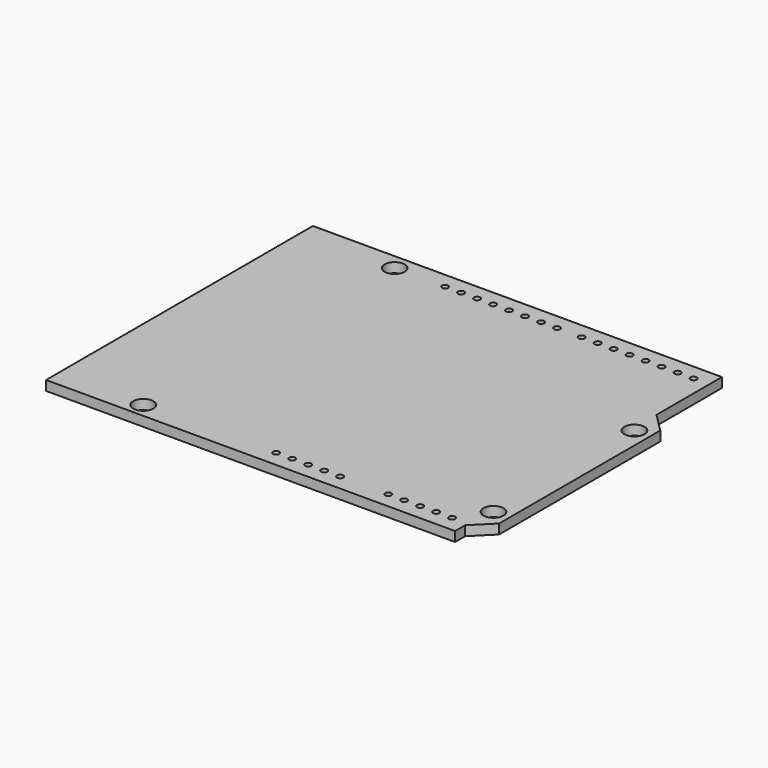
from build123d import *

# Parameters (mm, degrees)
F0_R     = 1.6
F0_R_2   = 0.5
F1_DEPTH = 1.54


with BuildPart() as f1:
    # F0 (on Top) → F1 (new body)
    with BuildSketch(Plane.XY):
        Polygon((0, 53), (0, 0), (65, 0), (65, 2), (68, 5), (68, 37), (65, 40), (65, 53), align=None)
        with Locations((13.6, 2.3)):
            Circle(F0_R, mode=Mode.SUBTRACT)
        with Locations((34.54, 2.54)):
            Circle(F0_R_2, mode=Mode.SUBTRACT)
        with Locations((37.08, 2.54)):
            Circle(F0_R_2, mode=Mode.SUBTRACT)
        with Locations((39.62, 2.54)):
            Circle(F0_R_2, mode=Mode.SUBTRACT)
        with Locations((42.16, 2.54)):
            Circle(F0_R_2, mode=Mode.SUBTRACT)
        with Locations((44.7, 2.54)):
            Circle(F0_R_2, mode=Mode.SUBTRACT)
        with Locations((52.34, 2.54)):
            Circle(F0_R_2, mode=Mode.SUBTRACT)
        with Locations((54.88, 2.54)):
            Circle(F0_R_2, mode=Mode.SUBTRACT)
        with Locations((57.42, 2.54)):
            Circle(F0_R_2, mode=Mode.SUBTRACT)
        with Locations((59.96, 2.54)):
            Circle(F0_R_2, mode=Mode.SUBTRACT)
        with Locations((62.5, 2.54)):
            Circle(F0_R_2, mode=Mode.SUBTRACT)
        with Locations((65.5, 7)):
            Circle(F0_R, mode=Mode.SUBTRACT)
        with Locations((15, 50.5)):
            Circle(F0_R, mode=Mode.SUBTRACT)
        with Locations((23.02, 50.5)):
            Circle(F0_R_2, mode=Mode.SUBTRACT)
        with Locations((25.56, 50.5)):
            Circle(F0_R_2, mode=Mode.SUBTRACT)
        with Locations((28.1, 50.5)):
            Circle(F0_R_2, mode=Mode.SUBTRACT)
        with Locations((30.64, 50.5)):
            Circle(F0_R_2, mode=Mode.SUBTRACT)
        with Locations((33.18, 50.5)):
            Circle(F0_R_2, mode=Mode.SUBTRACT)
        with Locations((65.5, 35)):
            Circle(F0_R, mode=Mode.SUBTRACT)
        with Locations((35.72, 50.5)):
            Circle(F0_R_2, mode=Mode.SUBTRACT)
        with Locations((38.26, 50.5)):
            Circle(F0_R_2, mode=Mode.SUBTRACT)
        with Locations((40.8, 50.5)):
            Circle(F0_R_2, mode=Mode.SUBTRACT)
        with Locations((44.72, 50.5)):
            Circle(F0_R_2, mode=Mode.SUBTRACT)
        with Locations((47.26, 50.5)):
            Circle(F0_R_2, mode=Mode.SUBTRACT)
        with Locations((49.8, 50.5)):
            Circle(F0_R_2, mode=Mode.SUBTRACT)
        with Locations((52.34, 50.5)):
            Circle(F0_R_2, mode=Mode.SUBTRACT)
        with Locations((54.88, 50.5)):
            Circle(F0_R_2, mode=Mode.SUBTRACT)
        with Locations((57.42, 50.5)):
            Circle(F0_R_2, mode=Mode.SUBTRACT)
        with Locations((59.96, 50.5)):
            Circle(F0_R_2, mode=Mode.SUBTRACT)
        with Locations((62.5, 50.5)):
            Circle(F0_R_2, mode=Mode.SUBTRACT)
    extrude(amount=F1_DEPTH)


solid = f1.part
